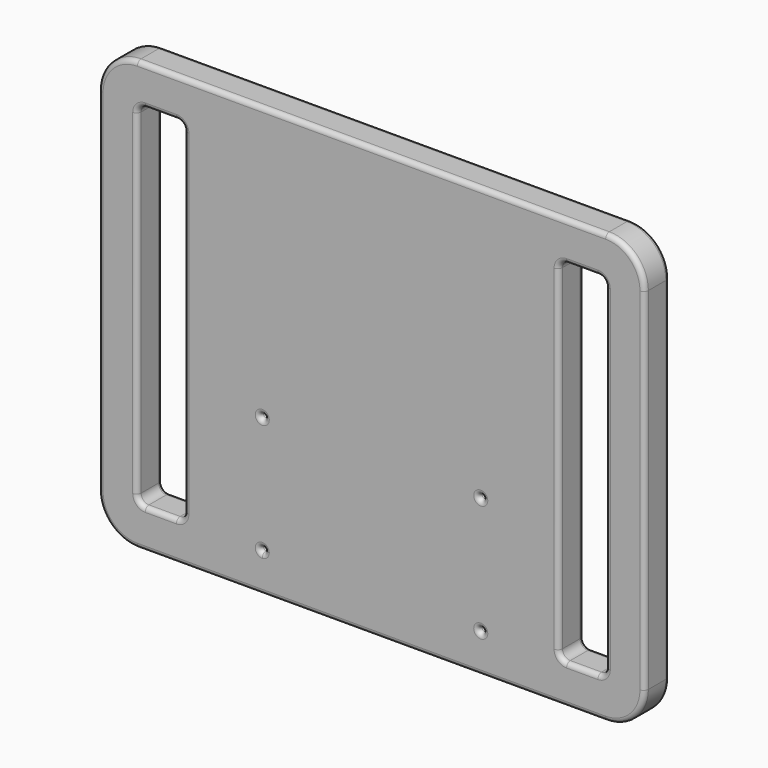
from build123d import *

# Parameters (mm, degrees)
F0_R     = 1.5
F1_DEPTH = 10
F2_R     = 3


with BuildPart() as f1:
    # F0 (on Front) → F1 (new body, symmetric)
    with BuildSketch(Plane.XZ):
        with BuildLine():
            Line((150, 174.266248), (0, 174.266248))
            Line((0, 174.266248), (-150, 174.266248))
            ThreePointArc((-150, 174.266248), (-167.67767, 166.943918), (-175, 149.266248))
            Line((-175, 149.266248), (-175, 24.266248))
            Line((-175, 24.266248), (-175, -75.733752))
            ThreePointArc((-175, -75.733752), (-167.67767, -93.411421), (-150, -100.733752))
            Line((-150, -100.733752), (-70, -100.733752))
            Line((-70, -100.733752), (0, -100.733752))
            Line((0, -100.733752), (150, -100.733752))
            ThreePointArc((150, -100.733752), (167.67767, -93.411421), (175, -75.733752))
            Line((175, -75.733752), (175, 24.266248))
            Line((175, 24.266248), (175, 149.266248))
            ThreePointArc((175, 149.266248), (167.67767, 166.943918), (150, 174.266248))
        make_face()
        with BuildLine():
            ThreePointArc((-68.5, -75.733752), (-68.93934, -76.794412), (-70, -77.233752))
            ThreePointArc((-70, -77.233752), (-71.06066, -74.673092), (-68.5, -75.733752))
        make_face(mode=Mode.SUBTRACT)
        with BuildLine():
            ThreePointArc((-150, 144.266248), (-148.535534, 147.801782), (-145, 149.266248))
            Line((-145, 149.266248), (-125, 149.266248))
            ThreePointArc((-125, 149.266248), (-121.464466, 147.801782), (-120, 144.266248))
            Line((-120, 144.266248), (-120, -70.733752))
            ThreePointArc((-120, -70.733752), (-121.464466, -74.269286), (-125, -75.733752))
            Line((-125, -75.733752), (-145, -75.733752))
            ThreePointArc((-145, -75.733752), (-148.535534, -74.269286), (-150, -70.733752))
            Line((-150, -70.733752), (-150, 144.266248))
        make_face(mode=Mode.SUBTRACT)
        with Locations((-70, -0.733752)):
            Circle(F0_R, mode=Mode.SUBTRACT)
        with BuildLine():
            ThreePointArc((71.5, -75.733752), (70, -77.233752), (68.5, -75.733752))
            ThreePointArc((68.5, -75.733752), (70, -74.233752), (71.5, -75.733752))
        make_face(mode=Mode.SUBTRACT)
        with BuildLine():
            ThreePointArc((71.5, -0.733752), (70, -2.233752), (68.5, -0.733752))
            ThreePointArc((68.5, -0.733752), (70, 0.766248), (71.5, -0.733752))
        make_face(mode=Mode.SUBTRACT)
        with BuildLine():
            Line((125, 149.266248), (145, 149.266248))
            ThreePointArc((145, 149.266248), (148.535534, 147.801782), (150, 144.266248))
            Line((150, 144.266248), (150, -70.733752))
            ThreePointArc((150, -70.733752), (148.535534, -74.269286), (145, -75.733752))
            Line((145, -75.733752), (125, -75.733752))
            ThreePointArc((125, -75.733752), (121.464466, -74.269286), (120, -70.733752))
            Line((120, -70.733752), (120, 144.266248))
            ThreePointArc((120, 144.266248), (121.464466, 147.801782), (125, 149.266248))
        make_face(mode=Mode.SUBTRACT)
    extrude(amount=F1_DEPTH, both=True)

    # F2
    f2_edges = [f1.edges().sort_by_distance(p)[0] for p in [
        (0, 10, 174.266248),
        (-167.67767, 10, 166.943918),
        (-175, 10, 36.766248),
        (-167.67767, 10, -93.411421),
        (0, 10, -100.733752),
        (167.67767, 10, -93.411421),
        (175, 10, 36.766248),
        (167.67767, 10, 166.943918),
        (-68.93934, 10, -76.794412),
        (-71.06066, 10, -74.673092),
        (-148.535534, 10, -74.269286),
        (-150, 10, 36.766248),
        (-148.535534, 10, 147.801782),
        (-135, 10, 149.266248),
        (-121.464466, 10, 147.801782),
        (-120, 10, 36.766248),
        (-121.464466, 10, -74.269286),
        (-135, 10, -75.733752),
        (-71.5, 10, -0.733752),
        (71.5, 10, -75.733752),
        (71.5, 10, -0.733752),
        (135, 10, 149.266248),
        (148.535534, 10, 147.801782),
        (150, 10, 36.766248),
        (148.535534, 10, -74.269286),
        (135, 10, -75.733752),
        (121.464466, 10, -74.269286),
        (120, 10, 36.766248),
        (121.464466, 10, 147.801782),
        (0, -10, 174.266248),
        (-167.67767, -10, 166.943918),
        (-175, -10, 36.766248),
        (-167.67767, -10, -93.411421),
        (0, -10, -100.733752),
        (167.67767, -10, -93.411421),
        (175, -10, 36.766248),
        (167.67767, -10, 166.943918),
        (-68.93934, -10, -76.794412),
        (-71.06066, -10, -74.673092),
        (-148.535534, -10, -74.269286),
        (-150, -10, 36.766248),
        (-148.535534, -10, 147.801782),
        (-135, -10, 149.266248),
        (-121.464466, -10, 147.801782),
        (-120, -10, 36.766248),
        (-121.464466, -10, -74.269286),
        (-135, -10, -75.733752),
        (-71.5, -10, -0.733752),
        (71.5, -10, -75.733752),
        (71.5, -10, -0.733752),
        (135, -10, 149.266248),
        (148.535534, -10, 147.801782),
        (150, -10, 36.766248),
        (148.535534, -10, -74.269286),
        (135, -10, -75.733752),
        (121.464466, -10, -74.269286),
        (120, -10, 36.766248),
        (121.464466, -10, 147.801782),
    ]]
    fillet(f2_edges, radius=F2_R)


solid = f1.part
